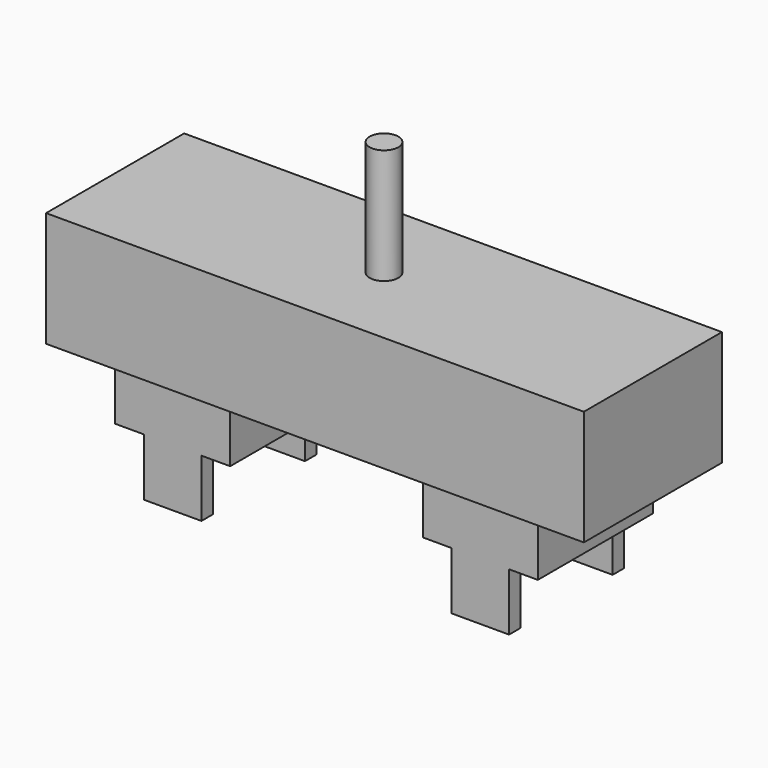
from build123d import *

# Parameters (mm, degrees)
F0_W     = 118.7196
F0_H     = 38.1
F1_DEPTH = 25.4
F2_W     = 25.4
F2_H     = 31.75
F3_DEPTH = 12.7
F4_W     = 12.7
F4_H     = 3.175
F5_DEPTH = 12.7
F6_W     = 12.7
F6_H     = 3.175
F7_DEPTH = 12.7
F8_R     = 3.175
F9_DEPTH = 25.4


with BuildPart() as f1:
    # F0 (on Top) → F1 (new body)
    with BuildSketch(Plane.XY):
        Rectangle(F0_W, F0_H)
    extrude(amount=F1_DEPTH)

    # F2 (on face) → F3 (join)
    with BuildSketch(Plane(origin=(0, 0, 0), x_dir=(1, 0, 0), z_dir=(0, 0, -1))):
        with Locations((-33.9598, 0)):
            Rectangle(F2_W, F2_H)
        with Locations((33.9598, 0)):
            Rectangle(F2_W, F2_H)
    extrude(amount=F3_DEPTH)

    # F4 (on face) → F5 (join)
    with BuildSketch(Plane(origin=(0, 0, -12.7), x_dir=(1, 0, 0), z_dir=(0, 0, -1))):
        with Locations((-33.9598, 14.2875)):
            Rectangle(F4_W, F4_H)
        with Locations((-33.9598, -14.2875)):
            Rectangle(F4_W, F4_H)
    extrude(amount=F5_DEPTH)

    # F6 (on face) → F7 (join)
    with BuildSketch(Plane(origin=(0, 0, -12.7), x_dir=(1, 0, 0), z_dir=(0, 0, -1))):
        with Locations((33.9598, 14.2875)):
            Rectangle(F6_W, F6_H)
        with Locations((33.9598, -14.2875)):
            Rectangle(F6_W, F6_H)
    extrude(amount=F7_DEPTH)

    # F8 (on face) → F9 (join)
    with BuildSketch(Plane.XY.offset(25.4)):
        Circle(F8_R)
    extrude(amount=F9_DEPTH)


solid = f1.part
